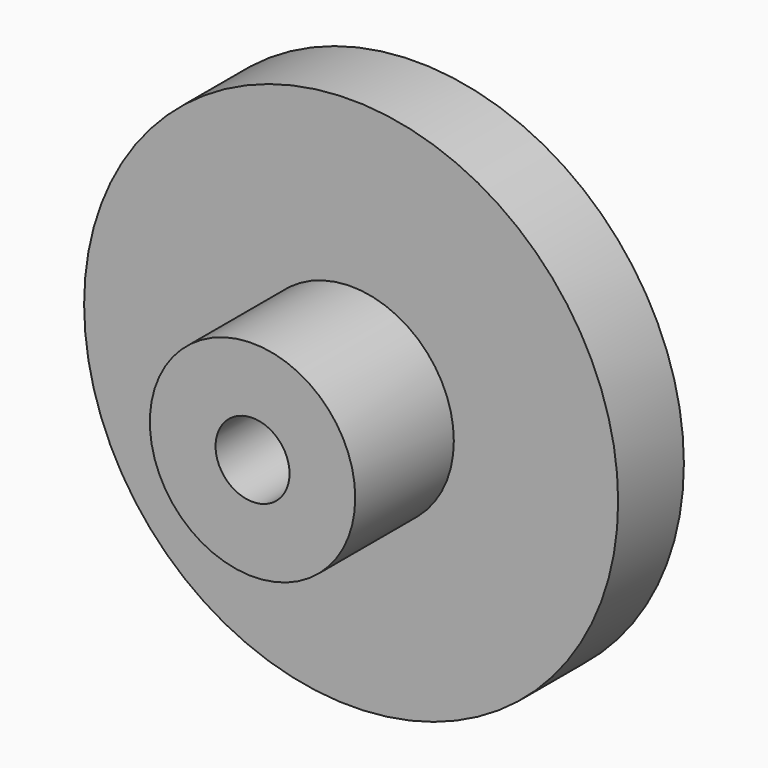
from build123d import *

# Parameters (mm, degrees)
F0_R     = 16.51
F1_DEPTH = 12.7
F2_R     = 2.286
F3_DEPTH = 7.62
F4_R     = 16.51
F4_R_2   = 6.35
F5_DEPTH = 7.62


with BuildPart() as f1:
    # F0 (on Front) → F1 (new body)
    with BuildSketch(Plane.XZ):
        Circle(F0_R)
    extrude(amount=-F1_DEPTH)

    # F2 (on face) → F3 (cut)
    with BuildSketch(Plane.XZ):
        Circle(F2_R)
    extrude(amount=-F3_DEPTH, mode=Mode.SUBTRACT)

    # F4 (on face) → F5 (cut)
    with BuildSketch(Plane.XZ):
        Circle(F4_R)
        Circle(F4_R_2, mode=Mode.SUBTRACT)
    extrude(amount=-F5_DEPTH, mode=Mode.SUBTRACT)


solid = f1.part
